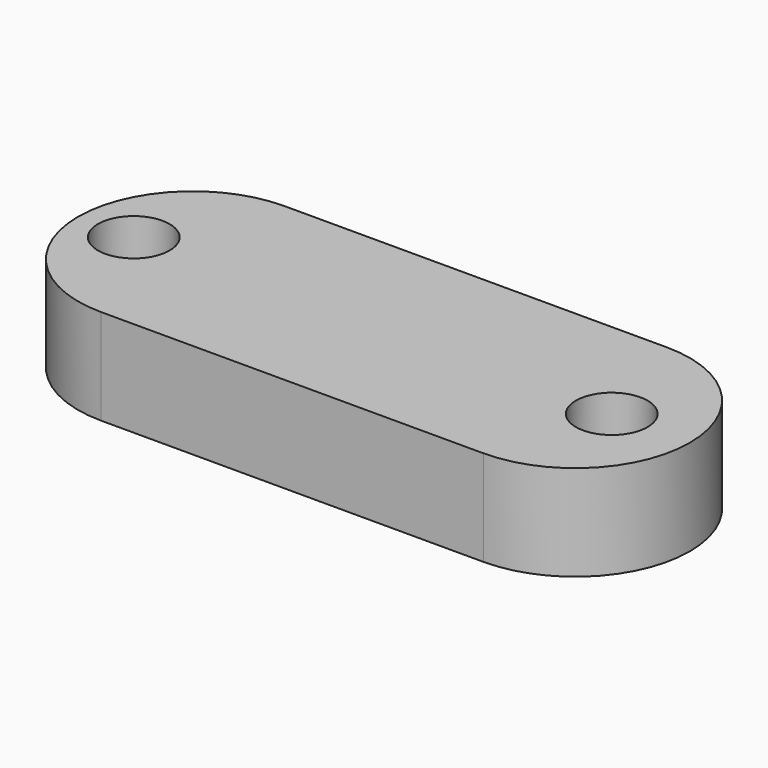
from build123d import *

# Parameters (mm, degrees)
F1_R     = 9.525
F2_DEPTH = 25.4


with BuildPart() as f2:
    # F1 (on face) → F2 (new body)
    with BuildSketch(Plane.XY):
        with BuildLine():
            ThreePointArc((53.790446, -30.48), (84.270446, 0), (53.790446, 30.48))
            Line((53.790446, 30.48), (-47.809554, 30.48))
            ThreePointArc((-47.809554, 30.48), (-78.289554, 0), (-47.809554, -30.48))
            Line((-47.809554, -30.48), (53.790446, -30.48))
        make_face()
        with Locations((-63.5, 0)):
            Circle(F1_R, mode=Mode.SUBTRACT)
        with Locations((63.5, 0)):
            Circle(F1_R, mode=Mode.SUBTRACT)
    extrude(amount=F2_DEPTH)


solid = f2.part
